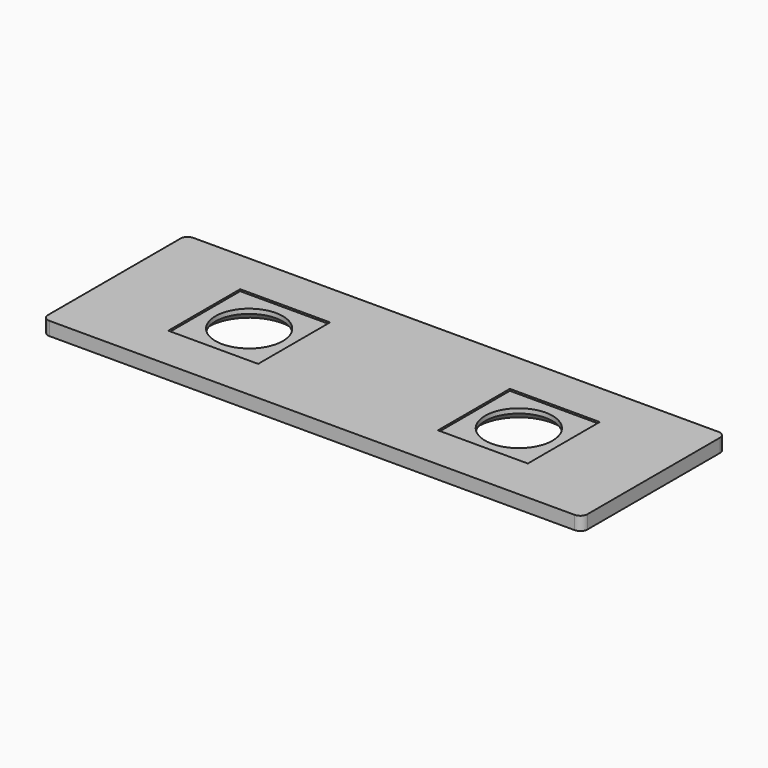
from build123d import *

# Parameters (mm, degrees)
SKETCH_W     = 76.2
SKETCH_H     = 25.4
SKETCH_R     = 4.7625
PAD_DEPTH    = 1.905
SKETCH001_W  = 12.7
SKETCH001_H  = 12.7
POCKET_DEPTH = 0.254
CHAMFER_SIZE = 1
FILLET_R     = 1


with BuildPart() as part:
    # Sketch → Pad (new body)
    with BuildSketch(Plane.XY):
        Rectangle(SKETCH_W, SKETCH_H)
        with Locations((-19.05, 0)):
            Circle(SKETCH_R, mode=Mode.SUBTRACT)
        with Locations((19.05, 0)):
            Circle(SKETCH_R, mode=Mode.SUBTRACT)
    extrude(amount=PAD_DEPTH)

    # Sketch001 → Pocket (cut)
    with BuildSketch(Plane.XY.offset(1.905)):
        with Locations((-19.05, 0)):
            Rectangle(SKETCH001_W, SKETCH001_H)
        with Locations((19.05, 0)):
            Rectangle(SKETCH001_W, SKETCH001_H)
    extrude(amount=-POCKET_DEPTH, mode=Mode.SUBTRACT)

    # Chamfer
    chamfer_edges = [part.edges().sort_by_distance(p)[0] for p in [
        (14.2875, 0, 0),
        (-23.8125, 0, 0),
    ]]
    chamfer(chamfer_edges, length=CHAMFER_SIZE)

    # Fillet
    fillet_edges = [part.edges().sort_by_distance(p)[0] for p in [
        (38.1, 12.7, 0.9525),
        (38.1, -12.7, 0.9525),
        (-38.1, -12.7, 0.9525),
        (-38.1, 12.7, 0.9525),
    ]]
    fillet(fillet_edges, radius=FILLET_R)


solid = part.part
